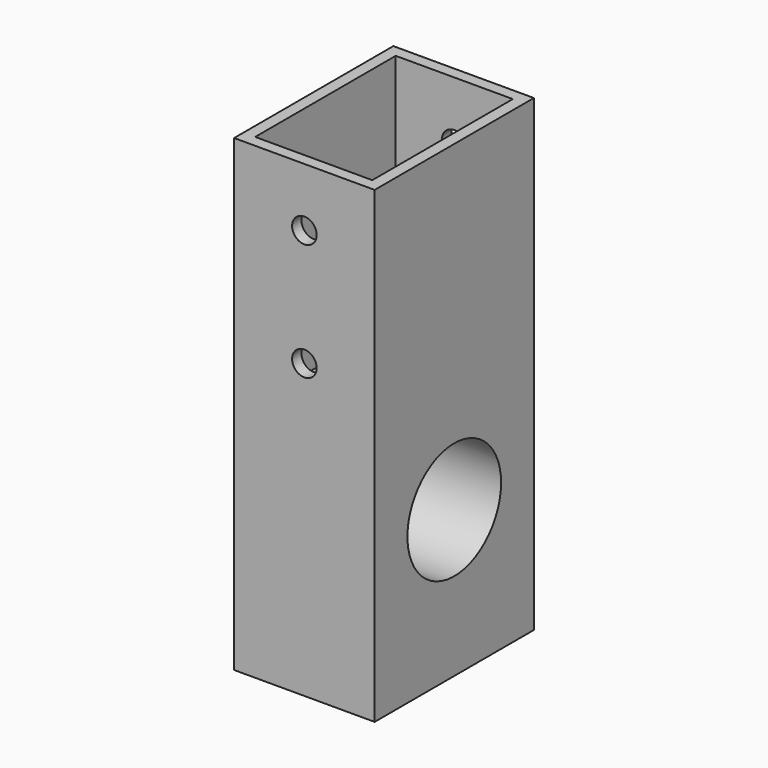
from build123d import *

# Parameters (mm, degrees)
F0_W     = 24
F0_H     = 34
F1_DEPTH = 80
F2_R     = 10
F3_DEPTH = 25
F4_W     = 20
F4_H     = 30
F5_DEPTH = 40
F6_R     = 2.1
F7_DEPTH = 40


with BuildPart() as f1:
    # F0 (on Top) → F1 (new body)
    with BuildSketch(Plane.XY):
        with Locations((-18.134795, 17)):
            Rectangle(F0_W, F0_H)
    extrude(amount=F1_DEPTH)

    # F2 (on face) → F3 (cut)
    with BuildSketch(Plane.YZ.offset(-6.134795)):
        with Locations((17, 25)):
            Circle(F2_R)
    extrude(amount=-F3_DEPTH, mode=Mode.SUBTRACT)

    # F4 (on face) → F5 (cut)
    with BuildSketch(Plane.XY.offset(80)):
        with Locations((-18.134795, 17)):
            Rectangle(F4_W, F4_H)
    extrude(amount=-F5_DEPTH, mode=Mode.SUBTRACT)

    # F6 (on face) → F7 (cut)
    with BuildSketch(Plane(origin=(0, 34, 0), x_dir=(-1, 0, 0), z_dir=(0, 1, 0))):
        with Locations((18.134795, 70)):
            Circle(F6_R)
        with Locations((18.134795, 50)):
            Circle(F6_R)
    extrude(amount=-F7_DEPTH, mode=Mode.SUBTRACT)


solid = f1.part
